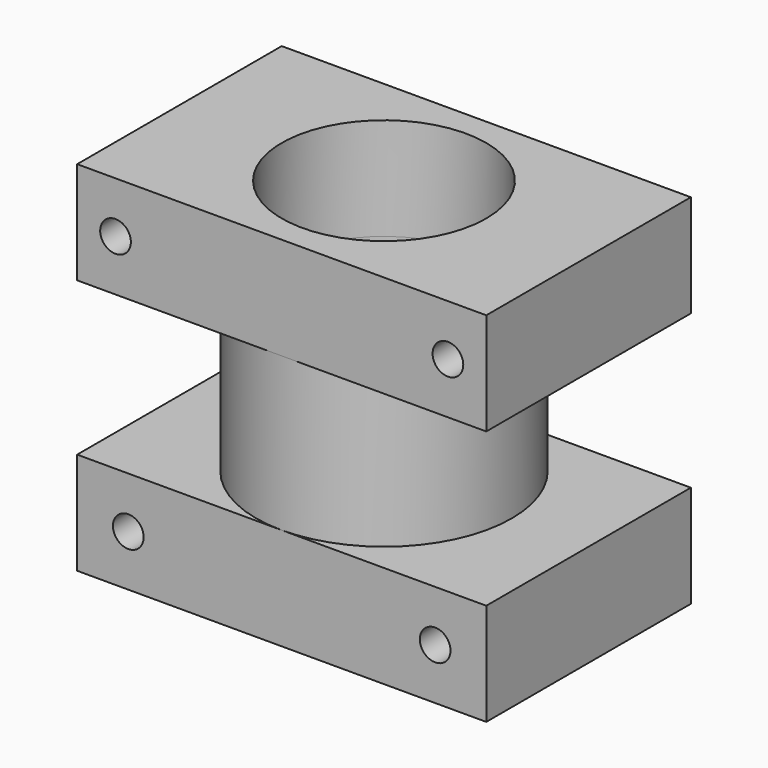
from build123d import *

# Parameters (mm, degrees)
CYLINDER001_R     = 25
CYLINDER001_DEPTH = 70
BOX_W             = 80
BOX_H             = 50
BOX_DEPTH         = 20
CYLINDER_R        = 20
CYLINDER_DEPTH    = 60
SKETCH_R          = 3
POCKET_DEPTH      = 50.001
POCKET001_DEPTH   = 10.001
BOX001_W          = 80
BOX001_H          = 50
BOX001_DEPTH      = 20
SKETCH002_R       = 3
POCKET002_DEPTH   = 50.001


with BuildPart() as cylinder001:
    # Cylinder001 → Cylinder001 (new body)
    with BuildSketch(Plane.XY):
        Circle(CYLINDER001_R)
    extrude(amount=CYLINDER001_DEPTH)


with BuildPart() as cut001:
    # Box → Box (new body)
    with BuildSketch(Plane(origin=(-40, -25, 0), x_dir=(1, 0, 0), z_dir=(0, 0, 1))):
        with Locations((40, 25)):
            Rectangle(BOX_W, BOX_H)
    extrude(amount=BOX_DEPTH)

    # Cut001: cut Cylinder001
    add(cylinder001.part, mode=Mode.SUBTRACT)


with BuildPart() as cylinder:
    # Cylinder → Cylinder (new body)
    with BuildSketch(Plane.XY.offset(10)):
        Circle(CYLINDER_R)
    extrude(amount=CYLINDER_DEPTH)


with BuildPart() as pocket001:
    # Cut base: copy of Cylinder001
    add(cylinder001.part)

    # Cut: cut Cylinder
    add(cylinder.part, mode=Mode.SUBTRACT)

    # Fusion: union Cut001
    add(cut001.part)

    # Sketch → Pocket (cut, through all)
    with BuildSketch(Plane.XZ.offset(25)):
        with Locations((-30, 10)):
            Circle(SKETCH_R)
        with Locations((30, 10)):
            Circle(SKETCH_R)
    extrude(amount=-POCKET_DEPTH, mode=Mode.SUBTRACT)

    # Sketch001 → Pocket001 (cut, through all)
    with BuildSketch(Plane.XY.offset(10)):
        with BuildLine():
            Line((-19.598788, 2.663334), (-15.495448, 2.663334))
            Line((-15.495448, 2.663334), (-15.495448, -3.336666))
            Line((-15.495448, -3.336666), (-19.495448, -3.336666))
            ThreePointArc((-19.598788, 2.663334), (-19.775991, -0.340608), (-19.495448, -3.336666))
        make_face()
        with BuildLine():
            Line((19.465373, 3), (15.465373, 3))
            Line((15.465373, 3), (15.465373, -3))
            Line((15.465373, -3), (19.465373, -3))
            ThreePointArc((19.465373, -3), (19.695196, 0), (19.465373, 3))
        make_face()
    extrude(amount=-POCKET001_DEPTH, mode=Mode.SUBTRACT)


with BuildPart() as pocket002:
    # Box001 → Box001 (new body)
    with BuildSketch(Plane(origin=(-40, -25, 50), x_dir=(1, 0, 0), z_dir=(0, 0, 1))):
        with Locations((40, 25)):
            Rectangle(BOX001_W, BOX001_H)
    extrude(amount=BOX001_DEPTH)

    # Cut002: cut Cylinder
    add(cylinder.part, mode=Mode.SUBTRACT)

    # Sketch002 → Pocket002 (cut, through all)
    with BuildSketch(Plane.XZ.offset(25)):
        with Locations((-32.5, 60)):
            Circle(SKETCH002_R)
        with Locations((32.5, 60)):
            Circle(SKETCH002_R)
    extrude(amount=-POCKET002_DEPTH, mode=Mode.SUBTRACT)


solid = Compound([pocket001.part, pocket002.part])
